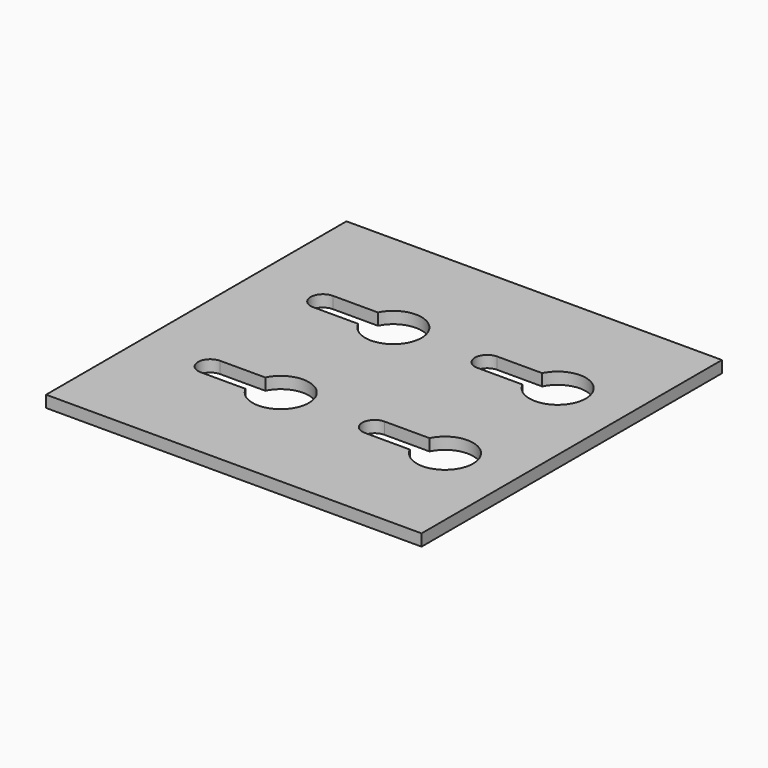
from build123d import *

# Parameters (mm, degrees)
F0_W     = 203.2
F0_H     = 203.2
F1_DEPTH = 6.35


with BuildPart() as f1:
    # F0 (on Top) → F1 (new body)
    with BuildSketch(Plane.XY):
        Rectangle(F0_W, F0_H)
        with BuildLine():
            Line((-39.104089, -44.7675), (-63.5, -44.7675))
            ThreePointArc((-63.5, -44.7675), (-70.1675, -38.1), (-63.5, -31.4325))
            Line((-63.5, -31.4325), (-39.104089, -31.4325))
            ThreePointArc((-39.104089, -31.4325), (-21.978941, -23.248941), (-10.16, -38.1))
            ThreePointArc((-10.16, -38.1), (-21.978941, -52.951059), (-39.104089, -44.7675))
        make_face(mode=Mode.SUBTRACT)
        with BuildLine():
            ThreePointArc((25.4, -44.7675), (18.7325, -38.1), (25.4, -31.4325))
            Line((25.4, -31.4325), (49.795911, -31.4325))
            ThreePointArc((49.795911, -31.4325), (66.921059, -23.248941), (78.74, -38.1))
            ThreePointArc((78.74, -38.1), (66.921059, -52.951059), (49.795911, -44.7675))
            Line((49.795911, -44.7675), (25.4, -44.7675))
        make_face(mode=Mode.SUBTRACT)
        with BuildLine():
            ThreePointArc((-39.104089, 44.7675), (-21.978941, 52.951059), (-10.16, 38.1))
            ThreePointArc((-10.16, 38.1), (-21.978941, 23.248941), (-39.104089, 31.4325))
            Line((-39.104089, 31.4325), (-63.5, 31.4325))
            ThreePointArc((-63.5, 31.4325), (-70.1675, 38.1), (-63.5, 44.7675))
            Line((-63.5, 44.7675), (-39.104089, 44.7675))
        make_face(mode=Mode.SUBTRACT)
        with BuildLine():
            ThreePointArc((49.795911, 44.7675), (66.921059, 52.951059), (78.74, 38.1))
            ThreePointArc((78.74, 38.1), (66.921059, 23.248941), (49.795911, 31.4325))
            Line((49.795911, 31.4325), (25.4, 31.4325))
            ThreePointArc((25.4, 31.4325), (18.7325, 38.1), (25.4, 44.7675))
            Line((25.4, 44.7675), (49.795911, 44.7675))
        make_face(mode=Mode.SUBTRACT)
    extrude(amount=F1_DEPTH)


solid = f1.part
